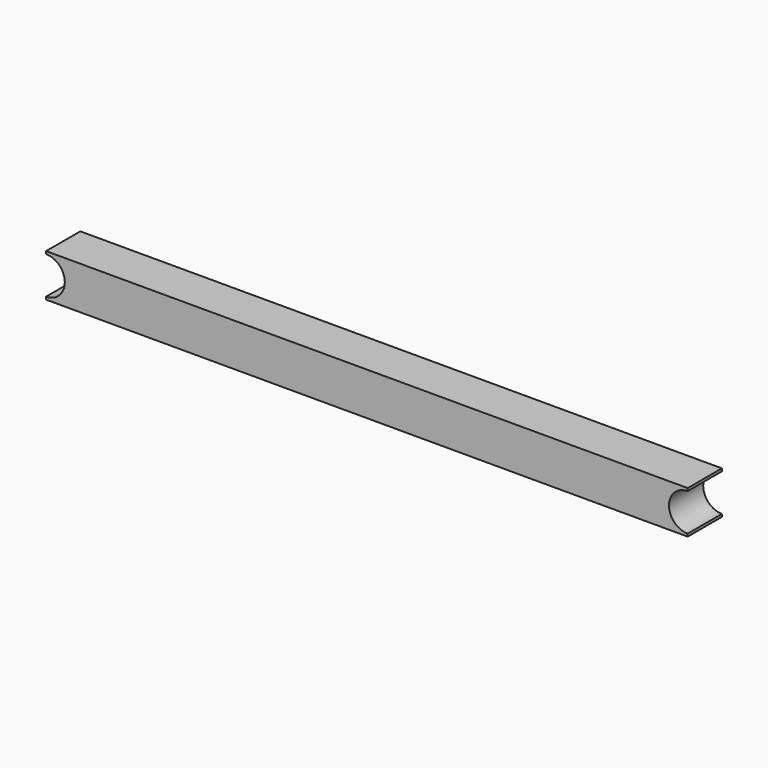
from build123d import *

# Parameters (mm, degrees)
BOX_W        = 180
BOX_H        = 12
BOX_DEPTH    = 12
POCKET_DEPTH = 12


with BuildPart() as part:
    # Box → Box (new body)
    with BuildSketch(Plane(origin=(0, -6, -6), x_dir=(1, 0, 0), z_dir=(0, 0, 1))):
        with Locations((90, 6)):
            Rectangle(BOX_W, BOX_H)
    extrude(amount=BOX_DEPTH)

    # Sketch → Pocket (cut)
    with BuildSketch(Plane(origin=(0, -6, -6), x_dir=(1, 0, 0), z_dir=(0, -1, 0))):
        with BuildLine():
            ThreePointArc((0, 0.75), (5.25, 6), (0, 11.25))
            Line((0, 11.25), (0, 0.75))
        make_face()
        with BuildLine():
            ThreePointArc((180, 11.25), (174.75, 6), (180, 0.75))
            Line((180, 11.25), (180, 0.75))
        make_face()
    extrude(amount=-POCKET_DEPTH, mode=Mode.SUBTRACT)


solid = part.part
